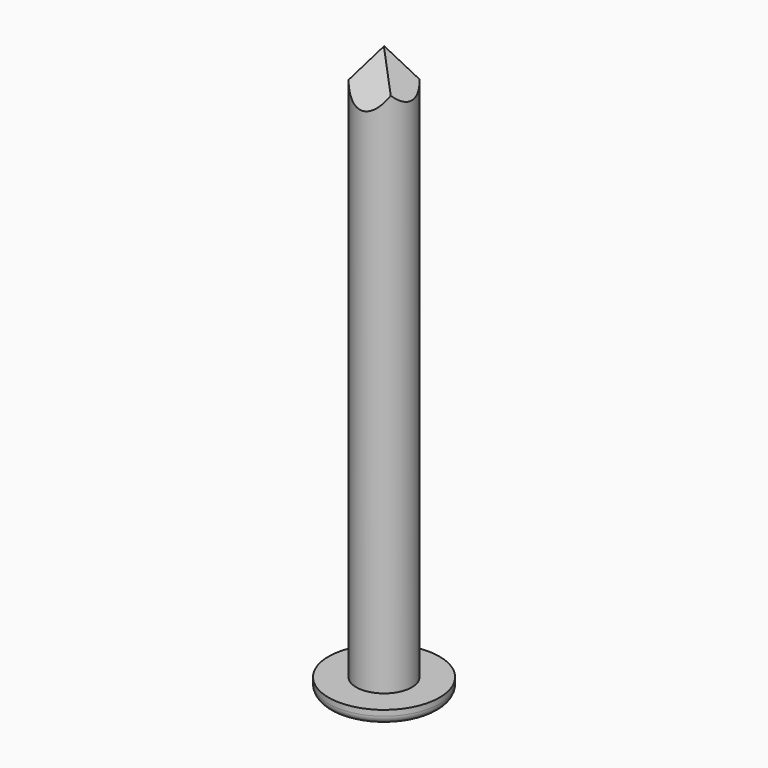
from build123d import *

# Parameters (mm, degrees)
F0_R          = 0.5
F1_DEPTH      = 10
F0_R_2        = 1
F2_DEPTH      = 0.25
F3_R          = 0.15
F5_DEPTH      = 25
F5_DEPTH_BACK = 25
F7_DEPTH      = 25
F7_DEPTH_BACK = 25


with BuildPart() as f1:
    # F0 (on Top) → F1 (new body)
    with BuildSketch(Plane.XY):
        Circle(F0_R)
    extrude(amount=F1_DEPTH)

    # F0 (on Top) → F2 (join)
    with BuildSketch(Plane.XY):
        Circle(F0_R_2)
        Circle(F0_R, mode=Mode.SUBTRACT)
        Circle(F0_R)
    extrude(amount=-F2_DEPTH)

    # F3
    f3_edges = [f1.edges().sort_by_distance(p)[0] for p in [
        (-1, 0, -0.25),
    ]]
    fillet(f3_edges, radius=F3_R)

    # F4 (on Right) → F5 (cut, two sides)
    with BuildSketch(Plane.YZ) as f5_sk:
        Polygon((-0.5701061455, 9.0645924211), (0, 10.0047653541), (0.5819916259, 9.0299136937), (0.5819916259, 10.0856823847), (-0.6548758829, 10.0856823847), align=None)
    extrude(amount=F5_DEPTH, mode=Mode.SUBTRACT)
    extrude(f5_sk.sketch, amount=-F5_DEPTH_BACK, mode=Mode.SUBTRACT)

    # F6 (on Front) → F7 (cut, two sides)
    with BuildSketch(Plane.XZ) as f7_sk:
        Polygon((-0.5932200584, 9.1788349673), (0, 9.9986912683), (0.5793294404, 9.1912103817), (0.6381116109, 10.2987894788), (-0.5932200584, 10.2987894788), align=None)
    extrude(amount=F7_DEPTH, mode=Mode.SUBTRACT)
    extrude(f7_sk.sketch, amount=-F7_DEPTH_BACK, mode=Mode.SUBTRACT)


solid = f1.part
